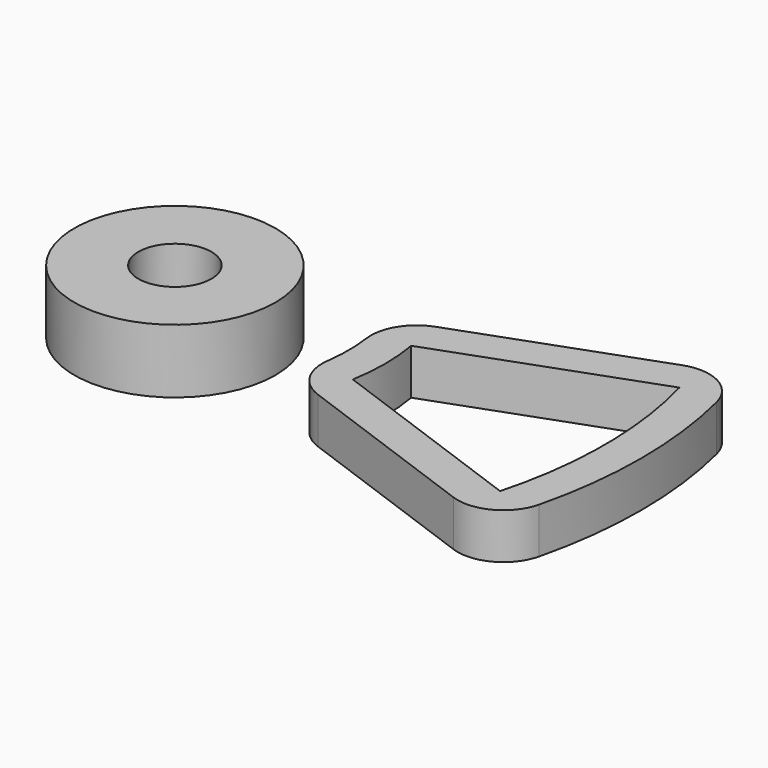
from build123d import *

# Parameters (mm, degrees)
F1_DEPTH = 5
F2_R     = 11
F2_R_2   = 4
F3_DEPTH = 7


with BuildPart() as f1:
    # F0 (on Top) → F1 (new body)
    with BuildSketch(Plane.XY):
        with BuildLine():
            Line((42.969751, 15.63971), (22.057771, 8.028372))
            ThreePointArc((22.057771, 8.028372), (19.48259, 5.906023), (18.816231, 2.636178))
            ThreePointArc((18.816231, 2.636178), (19, 0), (18.816231, -2.636178))
            ThreePointArc((18.816231, -2.636178), (19.48259, -5.906023), (22.057771, -8.028372))
            Line((22.057771, -8.028372), (42.969751, -15.63971))
            ThreePointArc((42.969751, -15.63971), (47.036455, -15.351056), (49.536357, -12.130513))
            ThreePointArc((49.536357, -12.130513), (51, 0), (49.536357, 12.130513))
            ThreePointArc((49.536357, 12.130513), (47.036455, 15.351056), (42.969751, 15.63971))
        make_face()
        with BuildLine():
            ThreePointArc((22.651652, -3.987816), (23, 0), (22.651652, 3.987816))
            Line((22.651652, 3.987816), (45.373395, 12.257854))
            ThreePointArc((45.373395, 12.257854), (47, 0), (45.373395, -12.257854))
            Line((45.373395, -12.257854), (22.651652, -3.987816))
        make_face(mode=Mode.SUBTRACT)
    extrude(amount=F1_DEPTH)


with BuildPart() as f3:
    # F2 (on Top) → F3 (new body)
    with BuildSketch(Plane.XY):
        Circle(F2_R)
        Circle(F2_R_2, mode=Mode.SUBTRACT)
    extrude(amount=F3_DEPTH)


solid = Compound([f1.part, f3.part])
